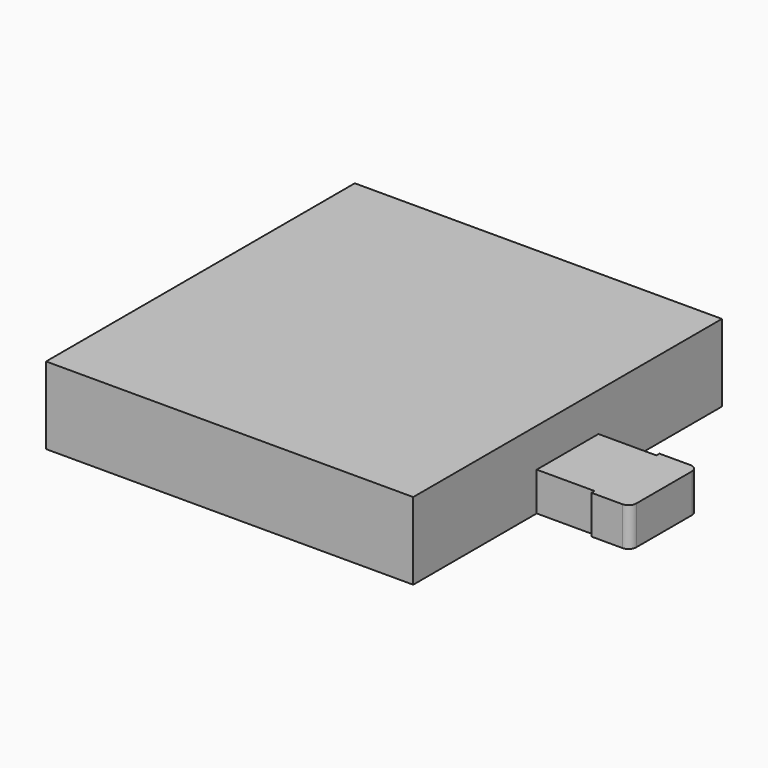
from build123d import *

# Parameters (mm, degrees)
F0_W      = 24.1681
F0_H      = 25.4
F1_DEPTH  = 5.08
F2_R      = 9.84758
F3_DEPTH  = 2.54
F4_R      = 10.706062
F4_R_2    = 9.84758
F5_DEPTH  = 0.6858
F6_W      = 5.08
F6_H      = 2.54
F7_DEPTH  = 6.35
F8_W      = 2.54
F8_H      = 2.54
F9_DEPTH  = 0.254
F10_R     = 0.508
F11_W     = 2.54
F11_H     = 2.54
F12_DEPTH = 0.254
F13_R     = 0.508


with BuildPart() as f1:
    # F0 (on Top) → F1 (new body)
    with BuildSketch(Plane.XY):
        Rectangle(F0_W, F0_H)
    extrude(amount=F1_DEPTH)

    # F2 (on Top) → F3 (cut)
    with BuildSketch(Plane.XY):
        Circle(F2_R)
    extrude(amount=F3_DEPTH, mode=Mode.SUBTRACT)

    # F4 (on face) → F5 (cut)
    with BuildSketch(Plane(origin=(0, 0, 2.54), x_dir=(1, 0, 0), z_dir=(0, 0, -1))):
        Circle(F4_R)
        Circle(F4_R_2, mode=Mode.SUBTRACT)
    extrude(amount=F5_DEPTH, mode=Mode.SUBTRACT)

    # F6 (on face) → F7 (join)
    with BuildSketch(Plane.YZ.offset(12.08405)):
        with Locations((0, 1.27)):
            Rectangle(F6_W, F6_H)
    extrude(amount=F7_DEPTH)

    # F8 (on face) → F9 (join)
    with BuildSketch(Plane.XZ.offset(2.54)):
        with Locations((17.16405, 1.27)):
            Rectangle(F8_W, F8_H)
        with Locations((17.16405, 1.27)):
            Rectangle(F8_W, F8_H)
    extrude(amount=F9_DEPTH)

    # F10
    f10_edges = [f1.edges().sort_by_distance(p)[0] for p in [
        (18.43405, -2.794, 1.27),
    ]]
    fillet(f10_edges, radius=F10_R)

    # F11 (on face) → F12 (join)
    with BuildSketch(Plane(origin=(0, 2.54, 0), x_dir=(-1, 0, 0), z_dir=(0, 1, 0))):
        with Locations((-17.16405, 1.27)):
            Rectangle(F11_W, F11_H)
    extrude(amount=F12_DEPTH)

    # F13
    f13_edges = [f1.edges().sort_by_distance(p)[0] for p in [
        (18.43405, 2.794, 1.27),
    ]]
    fillet(f13_edges, radius=F13_R)


solid = f1.part
